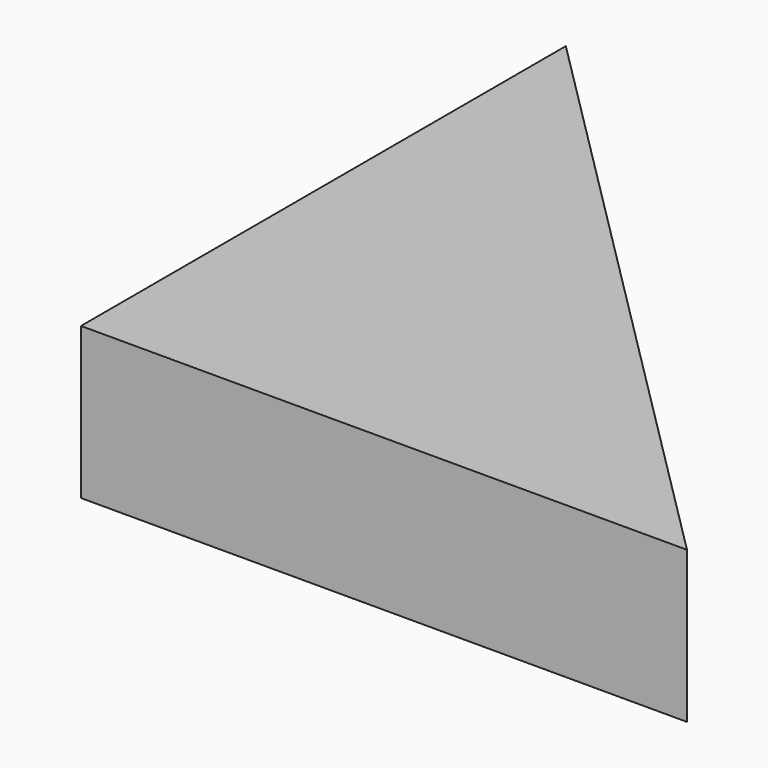
from build123d import *

# Parameters (mm, degrees)
PAD_DEPTH = 0.015


with BuildPart() as part:
    # Sketch → Pad (new body, symmetric)
    with BuildSketch(Plane.XY):
        Polygon((-0.04, 0.08), (-0.04, -0.04), (0.08, -0.04), align=None)
    extrude(amount=PAD_DEPTH, both=True)


solid = part.part
